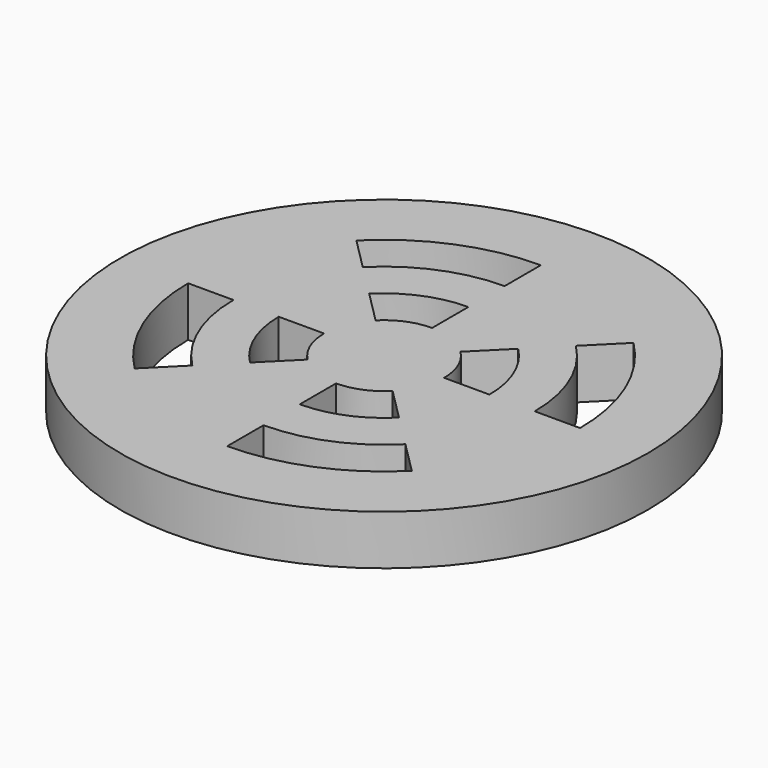
from build123d import *

# Parameters (mm, degrees)
F0_R     = 11.65
F1_DEPTH = 2.2
F3_DEPTH = 25


with BuildPart() as f1:
    # F0 (on Top) → F1 (new body)
    with BuildSketch(Plane.XY):
        Circle(F0_R)
    extrude(amount=F1_DEPTH)

    # F2 (on face) → F3 (cut)
    with BuildSketch(Plane(origin=(0, 0, 0), x_dir=(1, 0, 0), z_dir=(0, 0, -1))):
        with BuildLine():
            ThreePointArc((-6.1164736573, -6.1164736573), (-3.31021169, -7.9915579562), (0, -8.65))
            Line((0, -8.65), (0, -6.65))
            ThreePointArc((0, -6.65), (-2.5448448252, -6.1437988912), (-4.7022600949, -4.7022600949))
            Line((-4.7022600949, -4.7022600949), (-6.1164736573, -6.1164736573))
        make_face()
        with BuildLine():
            ThreePointArc((-3.2880465325, -3.2880465325), (-1.7794779605, -4.2960398262), (0, -4.65))
            Line((0, -4.65), (0, -2.65))
            ThreePointArc((0, -2.65), (-1.0141110958, -2.4482807612), (-1.8738329701, -1.8738329701))
            Line((-1.8738329701, -1.8738329701), (-3.2880465325, -3.2880465325))
        make_face()
        with BuildLine():
            ThreePointArc((6.1164736573, -6.1164736573), (7.9915579562, -3.31021169), (8.65, 0))
            Line((8.65, 0), (6.65, 0))
            ThreePointArc((6.65, 0), (6.1437988912, -2.5448448252), (4.7022600949, -4.7022600949))
            Line((4.7022600949, -4.7022600949), (6.1164736573, -6.1164736573))
        make_face()
        with BuildLine():
            ThreePointArc((3.2880465325, -3.2880465325), (4.2960398262, -1.7794779605), (4.65, 0))
            Line((4.65, 0), (2.65, 0))
            ThreePointArc((2.65, 0), (2.4482807612, -1.0141110958), (1.8738329701, -1.8738329701))
            Line((1.8738329701, -1.8738329701), (3.2880465325, -3.2880465325))
        make_face()
        with BuildLine():
            Line((4.7022600949, 4.7022600949), (6.1164736573, 6.1164736573))
            ThreePointArc((6.1164736573, 6.1164736573), (3.31021169, 7.9915579562), (0, 8.65))
            Line((0, 8.65), (0, 6.65))
            ThreePointArc((0, 6.65), (2.5448448252, 6.1437988912), (4.7022600949, 4.7022600949))
        make_face()
        with BuildLine():
            Line((1.8738329701, 1.8738329701), (3.2880465325, 3.2880465325))
            ThreePointArc((3.2880465325, 3.2880465325), (1.7794779605, 4.2960398262), (0, 4.65))
            Line((0, 4.65), (0, 2.65))
            ThreePointArc((0, 2.65), (1.0141110958, 2.4482807612), (1.8738329701, 1.8738329701))
        make_face()
        with BuildLine():
            Line((-1.8738329701, 1.8738329701), (-3.2880465325, 3.2880465325))
            ThreePointArc((-3.2880465325, 3.2880465325), (-4.2960398262, 1.7794779605), (-4.65, 0))
            Line((-4.65, 0), (-2.65, 0))
            ThreePointArc((-2.65, 0), (-2.4482807612, 1.0141110958), (-1.8738329701, 1.8738329701))
        make_face()
        with BuildLine():
            Line((-4.7022600949, 4.7022600949), (-6.1164736573, 6.1164736573))
            ThreePointArc((-6.1164736573, 6.1164736573), (-7.9915579562, 3.31021169), (-8.65, 0))
            Line((-8.65, 0), (-6.65, 0))
            ThreePointArc((-6.65, 0), (-6.1437988912, 2.5448448252), (-4.7022600949, 4.7022600949))
        make_face()
    extrude(amount=-F3_DEPTH, mode=Mode.SUBTRACT)


solid = f1.part
